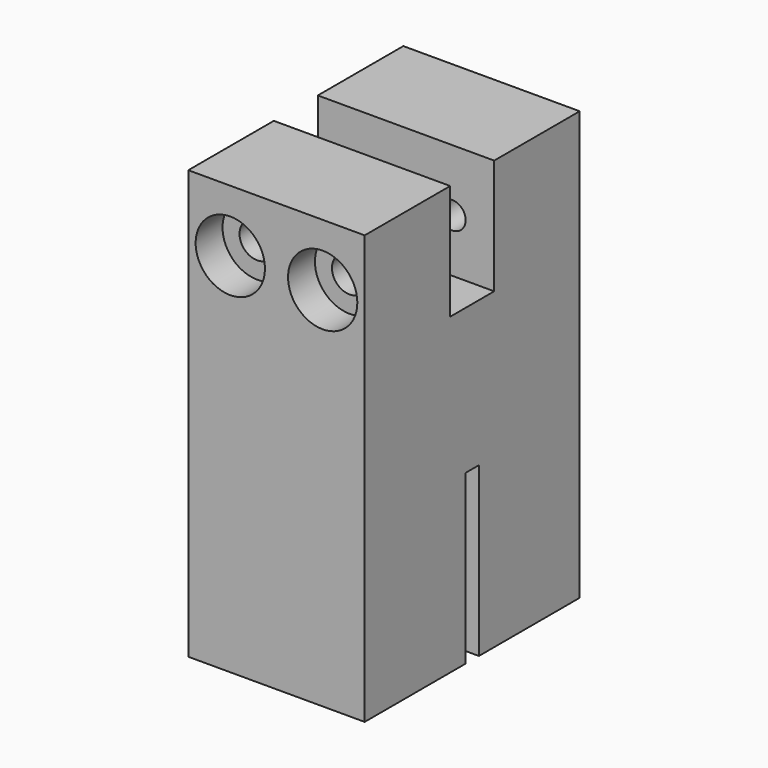
from build123d import *

# Parameters (mm, degrees)
F1_DEPTH       = 21
F3_W           = 6.55
F3_H           = 12.7
F4_DEPTH       = 21.001
F5_D           = 4.2
F5_DEPTH       = 14
F5_CBORE_D     = 8.25
F5_CBORE_DEPTH = 4
F5_TIP         = 1.2618073
F7_D           = 3.2
F7_DEPTH       = 20
F7_TIP         = 0.9613769904
F8_DEPTH       = 1


with BuildPart() as f1:
    # F0 (on Right) → F1 (new body)
    with BuildSketch(Plane.YZ):
        Polygon((-16, 25), (-16, -25), (-1, -25), (-1, -5), (1, -5), (1, -25), (16, -25), (16, 25), align=None)
    extrude(amount=F1_DEPTH)

    # F3 (on face) → F4 (cut, through all)
    with BuildSketch(Plane.YZ.offset(21)):
        with Locations((0, 18.65)):
            Rectangle(F3_W, F3_H)
    extrude(amount=-F4_DEPTH, mode=Mode.SUBTRACT)

    # F5
    with Locations(Plane.XZ.offset(16)):
        with Locations((5, 18.65), (16, 18.65)):
            CounterBoreHole(F5_D / 2, F5_CBORE_D / 2, F5_CBORE_DEPTH, depth=F5_DEPTH)
            with Locations((0, 0, -(F5_DEPTH + F5_TIP / 2))):  # 118° drill point
                Cone(0, F5_D / 2, F5_TIP, mode=Mode.SUBTRACT)

    # F7
    with Locations(Plane(origin=(0, 16, 0), x_dir=(-1, 0, 0), z_dir=(0, 1, 0))):
        with Locations((-16, 18.65), (-5, 18.65)):
            Hole(F7_D / 2, depth=F7_DEPTH)
            with Locations((0, 0, -(F7_DEPTH + F7_TIP / 2))):  # 118° drill point
                Cone(0, F7_D / 2, F7_TIP, mode=Mode.SUBTRACT)

    # F8 (add): faces of the model
    f8_faces = [f1.faces().sort_by_distance(p)[0] for p in [
        (10.5, -9.6375, 25),
        (10.5, 9.6375, 25),
    ]]
    extrude(f8_faces, amount=F8_DEPTH)


solid = f1.part
